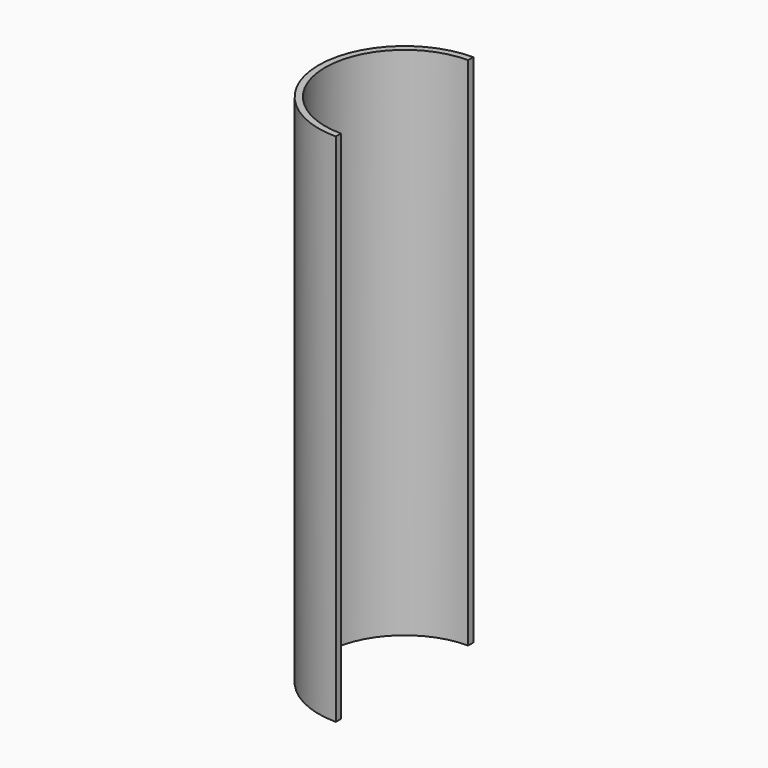
from build123d import *

# Parameters (mm, degrees)
F0_W     = 1.5
F0_H     = 120
F1_ANGLE = 180


with BuildPart() as f1:
    # F0 (on Front) → F1 (revolve, symmetric)
    with BuildSketch(Plane.XZ) as f1_sk:
        with Locations((-19.25, 60)):
            Rectangle(F0_W, F0_H)
    revolve(axis=Axis((0, 0, 23.852983), (0, 0, 1)), revolution_arc=F1_ANGLE / 2)
    revolve(f1_sk.sketch, axis=Axis((0, 0, 23.852983), (0, 0, -1)), revolution_arc=F1_ANGLE / 2)


solid = f1.part
